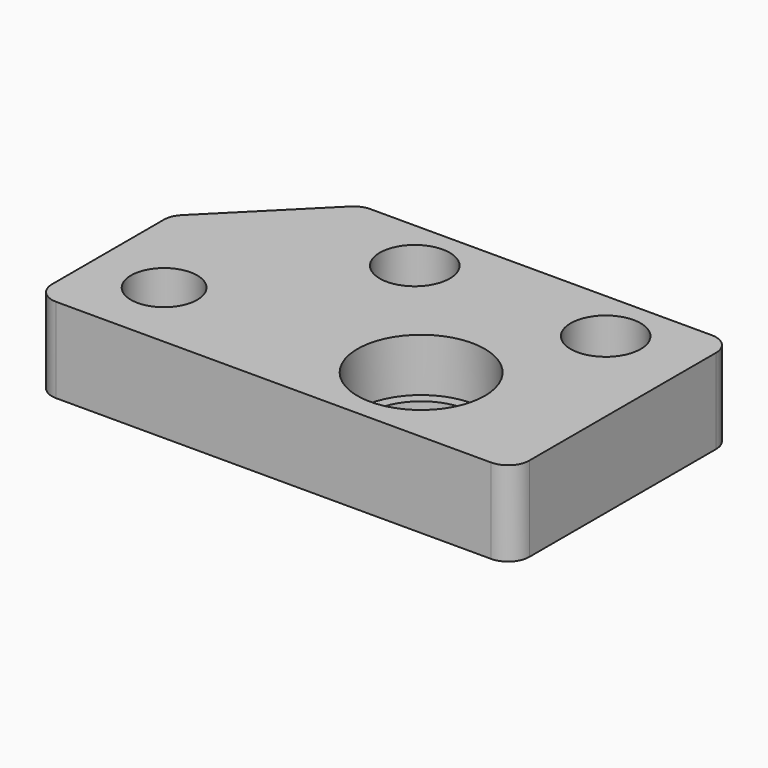
from build123d import *

# Parameters (mm, degrees)
F1_DEPTH = 8
F2_R     = 5
F3_DEPTH = 8.001
F4_R     = 6
F5_DEPTH = 5
F7_D     = 6.6
F8_R     = 3.125
F9_DEPTH = 8.001


with BuildPart() as f1:
    # F0 (on Top) → F1 (new body)
    with BuildSketch(Plane.XY):
        with BuildLine():
            ThreePointArc((-28.3169756085, -7.8291564448), (-27.7311891708, -9.2433700072), (-26.3169756085, -9.8291564448))
            Line((-26.3169756085, -9.8291564448), (14.6830243915, -9.8291564448))
            ThreePointArc((14.6830243915, -9.8291564448), (16.0972379539, -9.2433700072), (16.6830243915, -7.8291564448))
            Line((16.6830243915, -7.8291564448), (16.6830243915, 14.1708435552))
            ThreePointArc((16.6830243915, 14.1708435552), (16.0972379539, 15.5850571176), (14.6830243915, 16.1708435552))
            Line((14.6830243915, 16.1708435552), (-17.4885484837, 16.1708435552))
            ThreePointArc((-17.4885484837, 16.1708435552), (-18.2539153485, 16.0186026202), (-18.9027620461, 15.5850571176))
            Line((-18.9027620461, 15.5850571176), (-27.7311891708, 6.7566299928))
            ThreePointArc((-27.7311891708, 6.7566299928), (-28.1647346735, 6.1077832952), (-28.3169756085, 5.3424164305))
            Line((-28.3169756085, 5.3424164305), (-28.3169756085, -7.8291564448))
        make_face()
    extrude(amount=F1_DEPTH)

    # F2 (on face) → F3 (cut, through all)
    with BuildSketch(Plane.XY.offset(8)):
        with Locations((1.6830243915, -1.8291564448)):
            Circle(F2_R)
    extrude(amount=-F3_DEPTH, mode=Mode.SUBTRACT)

    # F4 (on face) → F5 (cut)
    with BuildSketch(Plane.XY.offset(8)):
        with Locations((1.6830243915, -1.8291564448)):
            Circle(F4_R)
    extrude(amount=-F5_DEPTH, mode=Mode.SUBTRACT)

    # F7 (through all)
    with Locations(Plane.XY.offset(8)):
        with Locations((-9.3169756085, 11.1708435552), (8.6830243915, 11.1708435552)):
            Hole(F7_D / 2)

    # F8 (on face) → F9 (cut, through all)
    with BuildSketch(Plane.XY.offset(8)):
        with Locations((-21.5339642018, -3.0962659512)):
            Circle(F8_R)
    extrude(amount=-F9_DEPTH, mode=Mode.SUBTRACT)


solid = f1.part
